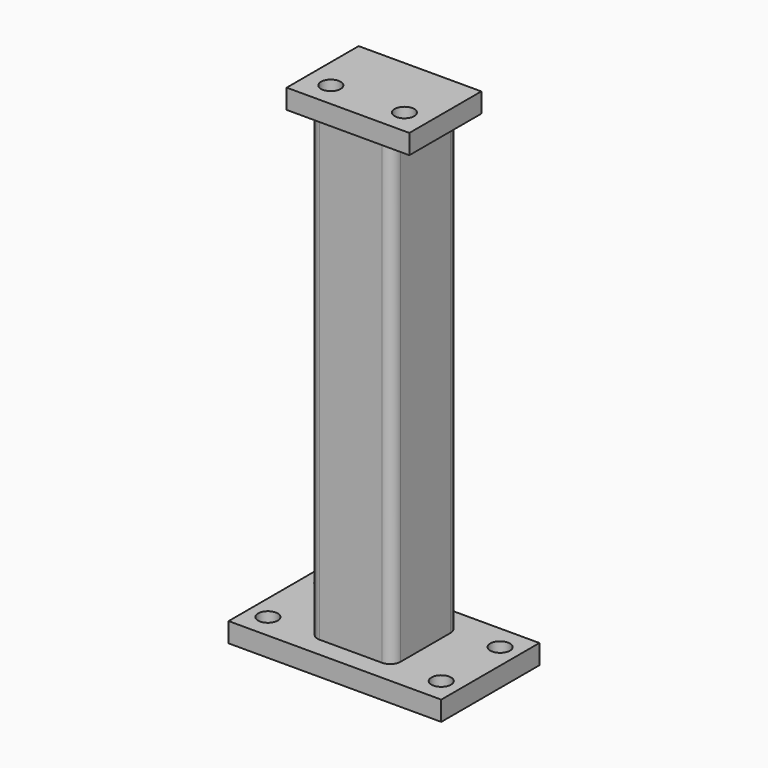
from build123d import *

# Parameters (mm, degrees)
F0_W     = 130
F0_H     = 75
F1_DEPTH = 12
F3_DEPTH = 280
F5_W     = 75
F5_H     = 55
F6_DEPTH = 12
F7_D     = 12
F9_D     = 12
F9_DEPTH = 12
F9_TIP   = 3.6051637142


with BuildPart() as f1:
    # F0 (on Top) → F1 (new body)
    with BuildSketch(Plane.XY):
        Rectangle(F0_W, F0_H)
    extrude(amount=-F1_DEPTH)

    # F2 (on face) → F3 (join)
    with BuildSketch(Plane.XY):
        with BuildLine():
            Line((-19.05, -25.4), (19.05, -25.4))
            ThreePointArc((19.05, -25.4), (23.5401280605, -23.5401280605), (25.4, -19.05))
            Line((25.4, -19.05), (25.4, 19.05))
            ThreePointArc((25.4, 19.05), (23.5401280605, 23.5401280605), (19.05, 25.4))
            Line((19.05, 25.4), (-19.05, 25.4))
            ThreePointArc((-19.05, 25.4), (-23.5401280605, 23.5401280605), (-25.4, 19.05))
            Line((-25.4, 19.05), (-25.4, -19.05))
            ThreePointArc((-25.4, -19.05), (-23.5401280605, -23.5401280605), (-19.05, -25.4))
        make_face()
        with BuildLine():
            Line((-12.7, 19.05), (12.7, 19.05))
            ThreePointArc((12.7, 19.05), (17.1901280605, 17.1901280605), (19.05, 12.7))
            Line((19.05, 12.7), (19.05, -12.7))
            ThreePointArc((19.05, -12.7), (17.1901280605, -17.1901280605), (12.7, -19.05))
            Line((12.7, -19.05), (-12.7, -19.05))
            ThreePointArc((-12.7, -19.05), (-17.1901280605, -17.1901280605), (-19.05, -12.7))
            Line((-19.05, -12.7), (-19.05, 12.7))
            ThreePointArc((-19.05, 12.7), (-17.1901280605, 17.1901280605), (-12.7, 19.05))
        make_face(mode=Mode.SUBTRACT)
    extrude(amount=F3_DEPTH)

    # F5 (on face) → F6 (join)
    with BuildSketch(Plane.XY.offset(280)):
        Rectangle(F5_W, F5_H)
        with BuildLine():
            Line((19.05, -25.4), (-19.05, -25.4))
            ThreePointArc((-19.05, -25.4), (-23.5401280605, -23.5401280605), (-25.4, -19.05))
            Line((-25.4, -19.05), (-25.4, 19.05))
            ThreePointArc((-25.4, 19.05), (-23.5401280605, 23.5401280605), (-19.05, 25.4))
            Line((-19.05, 25.4), (19.05, 25.4))
            ThreePointArc((19.05, 25.4), (23.5401280605, 23.5401280605), (25.4, 19.05))
            Line((25.4, 19.05), (25.4, -19.05))
            ThreePointArc((25.4, -19.05), (23.5401280605, -23.5401280605), (19.05, -25.4))
        make_face(mode=Mode.SUBTRACT)
        with BuildLine():
            ThreePointArc((-25.4, -19.05), (-23.5401280605, -23.5401280605), (-19.05, -25.4))
            Line((-19.05, -25.4), (19.05, -25.4))
            ThreePointArc((19.05, -25.4), (23.5401280605, -23.5401280605), (25.4, -19.05))
            Line((25.4, -19.05), (25.4, 19.05))
            ThreePointArc((25.4, 19.05), (23.5401280605, 23.5401280605), (19.05, 25.4))
            Line((19.05, 25.4), (-19.05, 25.4))
            ThreePointArc((-19.05, 25.4), (-23.5401280605, 23.5401280605), (-25.4, 19.05))
            Line((-25.4, 19.05), (-25.4, -19.05))
        make_face()
        with BuildLine():
            Line((-19.05, -12.7), (-19.05, 12.7))
            ThreePointArc((-19.05, 12.7), (-17.1901280605, 17.1901280605), (-12.7, 19.05))
            Line((-12.7, 19.05), (12.7, 19.05))
            ThreePointArc((12.7, 19.05), (17.1901280605, 17.1901280605), (19.05, 12.7))
            Line((19.05, 12.7), (19.05, -12.7))
            ThreePointArc((19.05, -12.7), (17.1901280605, -17.1901280605), (12.7, -19.05))
            Line((12.7, -19.05), (-12.7, -19.05))
            ThreePointArc((-12.7, -19.05), (-17.1901280605, -17.1901280605), (-19.05, -12.7))
        make_face(mode=Mode.SUBTRACT)
        with BuildLine():
            ThreePointArc((-12.7, 19.05), (-17.1901280605, 17.1901280605), (-19.05, 12.7))
            Line((-19.05, 12.7), (-19.05, -12.7))
            ThreePointArc((-19.05, -12.7), (-17.1901280605, -17.1901280605), (-12.7, -19.05))
            Line((-12.7, -19.05), (12.7, -19.05))
            ThreePointArc((12.7, -19.05), (17.1901280605, -17.1901280605), (19.05, -12.7))
            Line((19.05, -12.7), (19.05, 12.7))
            ThreePointArc((19.05, 12.7), (17.1901280605, 17.1901280605), (12.7, 19.05))
            Line((12.7, 19.05), (-12.7, 19.05))
        make_face()
    extrude(amount=F6_DEPTH)

    # F7 (through all)
    with Locations(Plane.XY):
        with Locations((-53, 22.5), (53, 22.5), (53, -22.5), (-53, -22.5)):
            Hole(F7_D / 2)

    # F9
    with Locations(Plane.XY.offset(292)):
        with Locations((-22.5, -12.5), (22.5, -12.5)):
            Hole(F9_D / 2, depth=F9_DEPTH)
            with Locations((0, 0, -(F9_DEPTH + F9_TIP / 2))):  # 118° drill point
                Cone(0, F9_D / 2, F9_TIP, mode=Mode.SUBTRACT)


solid = f1.part
